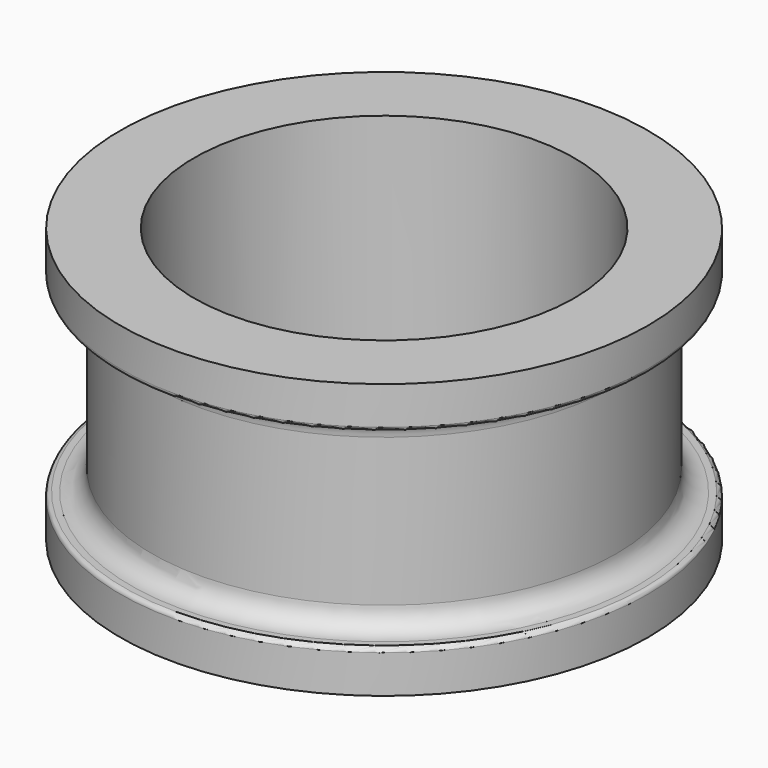
from build123d import *

# Parameters (mm, degrees)
F2_R     = 12.7
F3_R     = 2.54
F4_R     = 114.3
F5_DEPTH = 165.101


with BuildPart() as f1:
    # F0 (on Front) → F1 (revolve)
    with BuildSketch(Plane.XZ):
        Polygon((0, 165.1), (0, 0), (158.75, 0), (158.75, 25.4), (139.7, 25.4), (139.7, 139.7), (158.75, 139.7), (158.75, 165.1), align=None)
    revolve(axis=Axis((0, 0, 82.55), (0, 0, 1)))

    # F2
    f2_edges = [f1.edges().sort_by_distance(p)[0] for p in [
        (-139.7, 0, 139.7),
        (-139.7, 0, 25.4),
    ]]
    fillet(f2_edges, radius=F2_R)

    # F3
    f3_edges = [f1.edges().sort_by_distance(p)[0] for p in [
        (-158.75, 0, 25.4),
        (-158.75, 0, 139.7),
    ]]
    fillet(f3_edges, radius=F3_R)

    # F4 (on face) → F5 (cut, through all)
    with BuildSketch(Plane.XY.offset(165.1)):
        Circle(F4_R)
    extrude(amount=-F5_DEPTH, mode=Mode.SUBTRACT)


solid = f1.part
